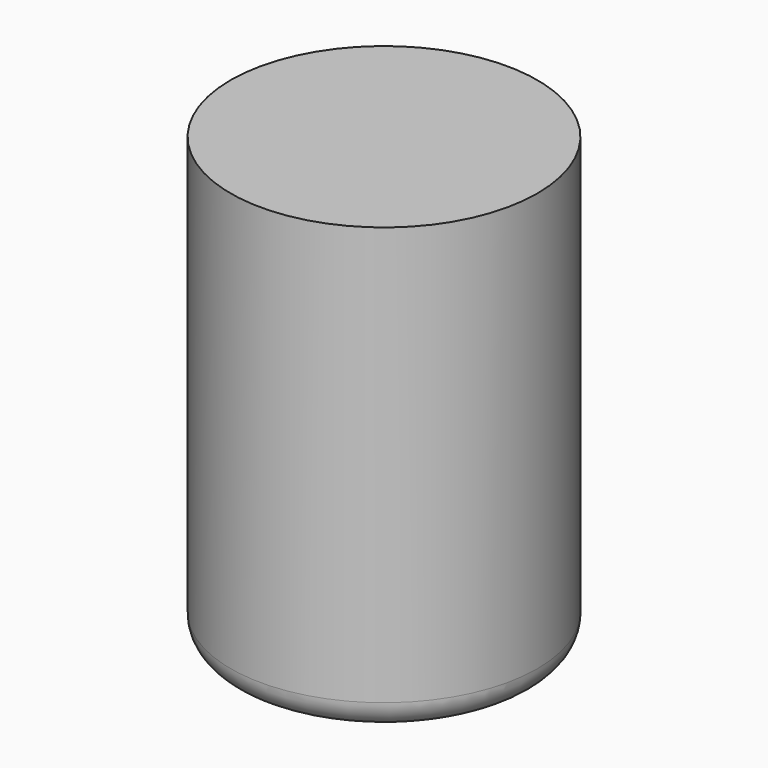
from build123d import *

# Parameters (mm, degrees)
F0_R     = 5.5
F1_DEPTH = 16
F2_R     = 1
F3_T     = -1.5


with BuildPart() as f1:
    # F0 (on Top) → F1 (new body)
    with BuildSketch(Plane.XY):
        Circle(F0_R)
    extrude(amount=-F1_DEPTH)

    # F2
    f2_edges = [f1.edges().sort_by_distance(p)[0] for p in [
        (-5.5, 0, -16),
    ]]
    fillet(f2_edges, radius=F2_R)

    # F3 (hollow: no face is removed)
    offset(amount=F3_T, mode=Mode.SUBTRACT)

    # F4 (on Front) → F5 (revolve)
    with BuildSketch(Plane.XZ):
        with BuildLine():
            Line((3, -16), (0, -16))
            Line((0, -16), (0, -17))
            ThreePointArc((0, -17), (1.6716371784, -17.0149115353), (3, -16))
        make_face()
    revolve(axis=Axis((0, 0, -16.5), (0, 0, -1)))


solid = f1.part
